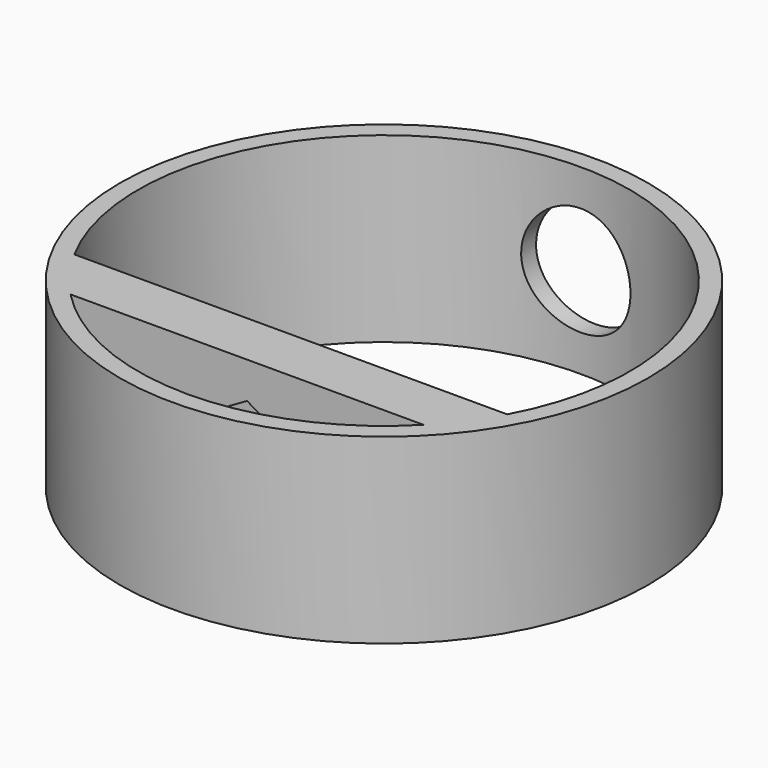
from build123d import *

# Parameters (mm, degrees)
F0_R     = 18.415
F1_DEPTH = 12.7
F2_R     = 1.651
F3_DEPTH = 3.81
F5_DEPTH = 2.54
F6_R     = 3.81
F7_DEPTH = 26.544


with BuildPart() as f1:
    # F0 (on Top) → F1 (new body)
    with BuildSketch(Plane.XY):
        Circle(F0_R)
        with BuildLine():
            ThreePointArc((12.3059, -11.938), (0, -17.145), (-12.3059, -11.938))
            Line((-12.3059, -11.938), (12.3059, -11.938))
        make_face(mode=Mode.SUBTRACT)
        with BuildLine():
            Line((15.095915, -8.128), (-15.095915, -8.128))
            ThreePointArc((-15.095915, -8.128), (0, 17.145), (15.095915, -8.128))
        make_face(mode=Mode.SUBTRACT)
    extrude(amount=F1_DEPTH)

    # F2 (on face) → F3 (cut, through all)
    with BuildSketch(Plane(origin=(0, -8.128, 0), x_dir=(-1, 0, 0), z_dir=(0, 1, 0))):
        with Locations((0, 6.35)):
            Circle(F2_R)
    extrude(amount=-F3_DEPTH, mode=Mode.SUBTRACT)

    # F4 (on face) → F5 (cut)
    with BuildSketch(Plane.XZ.offset(11.938)):
        Polygon((3.302, 4.443589), (3.302, 8.256411), (0, 10.162821), (-3.302, 8.256411), (-3.302, 4.443589), (0, 2.537179), align=None)
    extrude(amount=-F5_DEPTH, mode=Mode.SUBTRACT)

    # F6 (on face) → F7 (cut, through all)
    with BuildSketch(Plane(origin=(0, -8.128, 0), x_dir=(-1, 0, 0), z_dir=(0, 1, 0))):
        with Locations((0, 6.35)):
            Circle(F6_R)
    extrude(amount=F7_DEPTH, mode=Mode.SUBTRACT)


solid = f1.part
